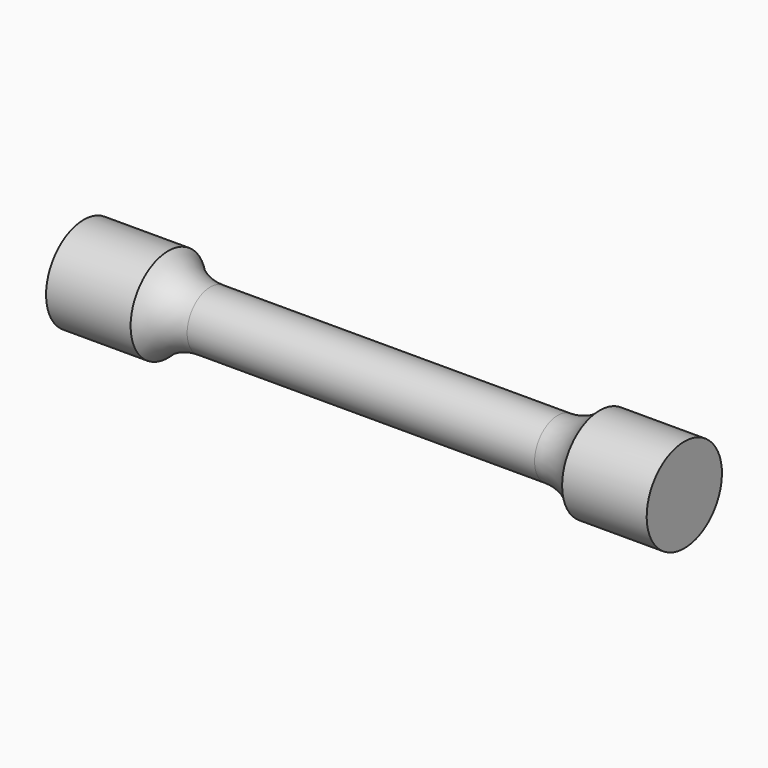
from build123d import *


with BuildPart() as f1:
    # F0 (on Front) → F1 (revolve)
    with BuildSketch(Plane.XZ):
        with BuildLine():
            Line((18, 3), (0, 3))
            Line((0, 3), (-18, 3))
            ThreePointArc((-18, 3), (-20.371248, 3.48845), (-22.356418, 4.874273))
            Line((-22.356418, 4.874273), (-31.11583, 4.874273))
            Line((-31.11583, 4.874273), (-31.11583, 0))
            Line((-31.11583, 0), (0, 0))
            Line((0, 0), (31.11583, 0))
            Line((31.11583, 0), (31.11583, 4.874273))
            Line((31.11583, 4.874273), (22.356418, 4.874273))
            ThreePointArc((22.356418, 4.874273), (20.371248, 3.48845), (18, 3))
        make_face()
    revolve(axis=Axis((-15.557915, 0, 0), (1, 0, 0)))


solid = f1.part
